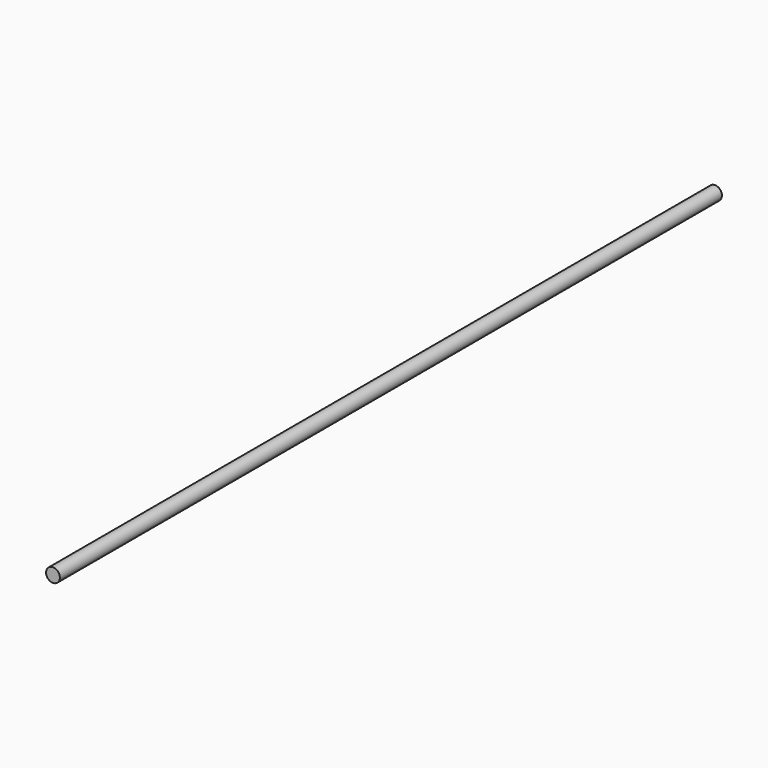
from build123d import *

# Parameters (mm, degrees)
SKETCH_R  = 4
PAD_DEPTH = 480


with BuildPart() as part:
    # Sketch → Pad (new body)
    with BuildSketch(Plane.XZ):
        Circle(SKETCH_R)
    extrude(amount=PAD_DEPTH)


solid = part.part
